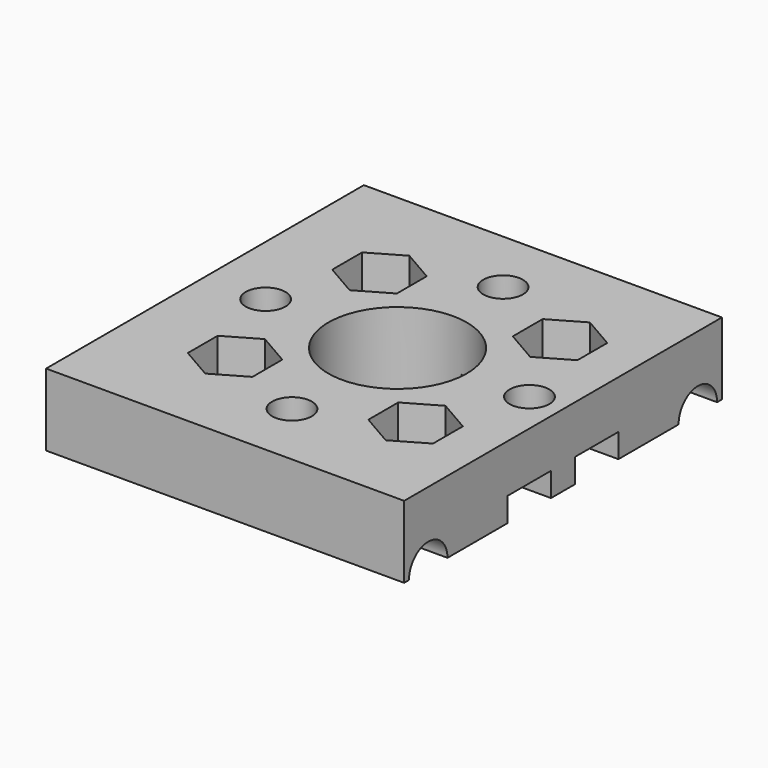
from build123d import *

# Parameters (mm, degrees)
SKETCH_W        = 59.5
SKETCH_H        = 66
PAD_DEPTH       = 12
SKETCH001_R     = 3.3
POCKET_DEPTH    = 6
SKETCH002_R     = 3.3
SKETCH002_R_2   = 1.6
POCKET001_DEPTH = 6.001
SKETCH003_R     = 4
POCKET002_DEPTH = 59.501
SKETCH004_R     = 3.3
POCKET003_DEPTH = 5.5
POCKET004_DEPTH = 5.5
SKETCH006_R     = 11.5
POCKET005_DEPTH = 12.001
SKETCH007_W     = 9
SKETCH007_H     = 4
POCKET006_DEPTH = 26


with BuildPart() as part:
    # Sketch → Pad (new body)
    with BuildSketch(Plane.XY):
        with Locations((-2.25, 0)):
            Rectangle(SKETCH_W, SKETCH_H)
    extrude(amount=PAD_DEPTH)

    # Sketch001 (on Face6 of Pad) → Pocket (cut)
    with BuildSketch(Plane.XY.offset(12)):
        with Locations((0, 21.92031)):
            Circle(SKETCH001_R)
        with Locations((-21.92031, 0)):
            Circle(SKETCH001_R)
        with Locations((21.92031, 0)):
            Circle(SKETCH001_R)
        with Locations((0, -21.92031)):
            Circle(SKETCH001_R)
        Polygon((-9.630642, 18.1), (-15, 21.2), (-20.369358, 18.1), (-20.369358, 11.9), (-15, 8.8), (-9.630642, 11.9), align=None)
        Polygon((20.369358, 18.1), (15, 21.2), (9.630642, 18.1), (9.630642, 11.9), (15, 8.8), (20.369358, 11.9), align=None)
        Polygon((-20.369358, -18.1), (-15, -21.2), (-9.630642, -18.1), (-9.630642, -11.9), (-15, -8.8), (-20.369358, -11.9), align=None)
        Polygon((20.369358, -11.9), (15, -8.8), (9.630642, -11.9), (9.630642, -18.1), (15, -21.2), (20.369358, -18.1), align=None)
    extrude(amount=-POCKET_DEPTH, mode=Mode.SUBTRACT)

    # Sketch002 (on Face41 of Pocket) → Pocket001 (cut, through all)
    with BuildSketch(Plane.XY.offset(6)):
        with Locations((-15, 15)):
            Circle(SKETCH002_R)
        with Locations((0, 21.92031)):
            Circle(SKETCH002_R_2)
        with Locations((15, 15)):
            Circle(SKETCH002_R)
        with Locations((-15, -15)):
            Circle(SKETCH002_R)
        with Locations((15, -15)):
            Circle(SKETCH002_R)
        with Locations((0, -21.92031)):
            Circle(SKETCH002_R_2)
        with Locations((21.92031, 0)):
            Circle(SKETCH002_R_2)
        with Locations((-21.92031, 0)):
            Circle(SKETCH002_R_2)
    extrude(amount=-POCKET001_DEPTH, mode=Mode.SUBTRACT)

    # Sketch003 (on Face3 of Pocket001) → Pocket002 (cut, through all)
    with BuildSketch(Plane.YZ.offset(27.5)):
        with Locations((-28, 0)):
            Circle(SKETCH003_R)
        with Locations((28, 0)):
            Circle(SKETCH003_R)
    extrude(amount=-POCKET002_DEPTH, mode=Mode.SUBTRACT)

    # Sketch004 (on Face2 of Pocket002) → Pocket003 (cut)
    with BuildSketch(Plane(origin=(-32, 0, 0), x_dir=(0, -1, 0), z_dir=(-1, 0, 0))):
        with Locations((-15, 0)):
            Circle(SKETCH004_R)
        with Locations((15, 0)):
            Circle(SKETCH004_R)
    extrude(amount=-POCKET003_DEPTH, mode=Mode.SUBTRACT)

    # Sketch005 (on Face42 of Pocket003) → Pocket004 (cut)
    with BuildSketch(Plane(origin=(-26.5, 0, 0), x_dir=(0, -1, 0), z_dir=(-1, 0, 0))):
        Polygon((-9.630642, 3.1), (-15, 6.2), (-20.369358, 3.1), (-20.369358, -3.1), (-15, -6.2), (-9.630642, -3.1), align=None)
        Polygon((9.630642, -3.1), (15, -6.2), (20.369358, -3.1), (20.369358, 3.1), (15, 6.2), (9.630642, 3.1), align=None)
    extrude(amount=-POCKET004_DEPTH, mode=Mode.SUBTRACT)

    # Sketch006 (on Face5 of Pocket004) → Pocket005 (cut, through all)
    with BuildSketch(Plane.XY.offset(12)):
        Circle(SKETCH006_R)
    extrude(amount=-POCKET005_DEPTH, mode=Mode.SUBTRACT)

    # Sketch007 (on Face3 of Pocket005) → Pocket006 (cut)
    with BuildSketch(Plane.YZ.offset(27.5)):
        with Locations((-7, 2)):
            Rectangle(SKETCH007_W, SKETCH007_H)
        with Locations((7, 2)):
            Rectangle(SKETCH007_W, SKETCH007_H)
    extrude(amount=-POCKET006_DEPTH, mode=Mode.SUBTRACT)


solid = part.part
